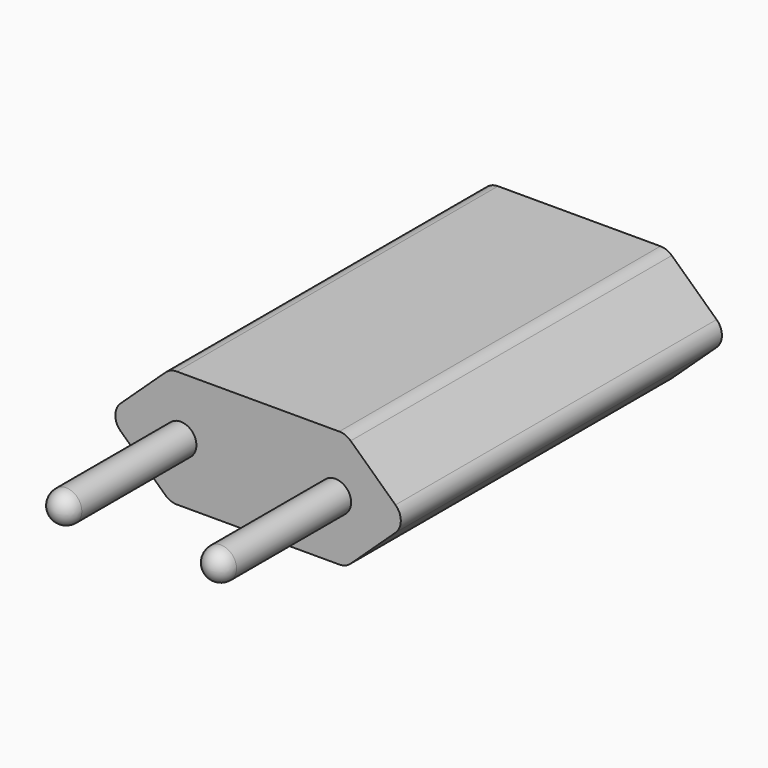
from build123d import *

# Parameters (mm, degrees)
F1_DEPTH = 24
F2_R     = 1.875
F3_DEPTH = 19
F4_R     = 1.875
F6_DEPTH = 11.5


with BuildPart() as f1:
    # F0 (on Front) → F1 (new body, symmetric)
    with BuildSketch(Plane.XZ):
        with BuildLine():
            Line((-11.07631, 6.462111), (-16.433453, 1.462111))
            ThreePointArc((-16.433453, 1.462111), (-17.068816, 0), (-16.433453, -1.462111))
            Line((-16.433453, -1.462111), (-11.07631, -6.462111))
            ThreePointArc((-11.07631, -6.462111), (-10.445083, -6.860675), (-9.711674, -7))
            Line((-9.711674, -7), (9.711674, -7))
            ThreePointArc((9.711674, -7), (10.445083, -6.860675), (11.07631, -6.462111))
            Line((11.07631, -6.462111), (16.433453, -1.462111))
            ThreePointArc((16.433453, -1.462111), (17.068816, 0), (16.433453, 1.462111))
            Line((16.433453, 1.462111), (11.07631, 6.462111))
            ThreePointArc((11.07631, 6.462111), (10.445083, 6.860675), (9.711674, 7))
            Line((9.711674, 7), (-9.711674, 7))
            ThreePointArc((-9.711674, 7), (-10.445083, 6.860675), (-11.07631, 6.462111))
        make_face()
    extrude(amount=F1_DEPTH, both=True)

    # F2 (on face) → F3 (join)
    with BuildSketch(Plane.XZ.offset(24)):
        with Locations((-9.25, 0)):
            Circle(F2_R)
        with Locations((9.25, 0)):
            Circle(F2_R)
    extrude(amount=F3_DEPTH)

    # F4
    f4_edges = [f1.edges().sort_by_distance(p)[0] for p in [
        (-11.125, -43, 0),
        (7.375, -43, 0),
    ]]
    fillet(f4_edges, radius=F4_R)

    # F5 (on face) → F6 (cut)
    with BuildSketch(Plane(origin=(0, 24, 0), x_dir=(-1, 0, 0), z_dir=(0, 1, 0))):
        with BuildLine():
            ThreePointArc((6.25, 2), (6.103553, 2.353553), (5.75, 2.5))
            Line((5.75, 2.5), (-5.75, 2.5))
            ThreePointArc((-5.75, 2.5), (-6.103553, 2.353553), (-6.25, 2))
            Line((-6.25, 2), (-6.25, -2))
            ThreePointArc((-6.25, -2), (-6.103553, -2.353553), (-5.75, -2.5))
            Line((-5.75, -2.5), (5.75, -2.5))
            ThreePointArc((5.75, -2.5), (6.103553, -2.353553), (6.25, -2))
            Line((6.25, -2), (6.25, 2))
        make_face()
    extrude(amount=-F6_DEPTH, mode=Mode.SUBTRACT)


solid = f1.part
